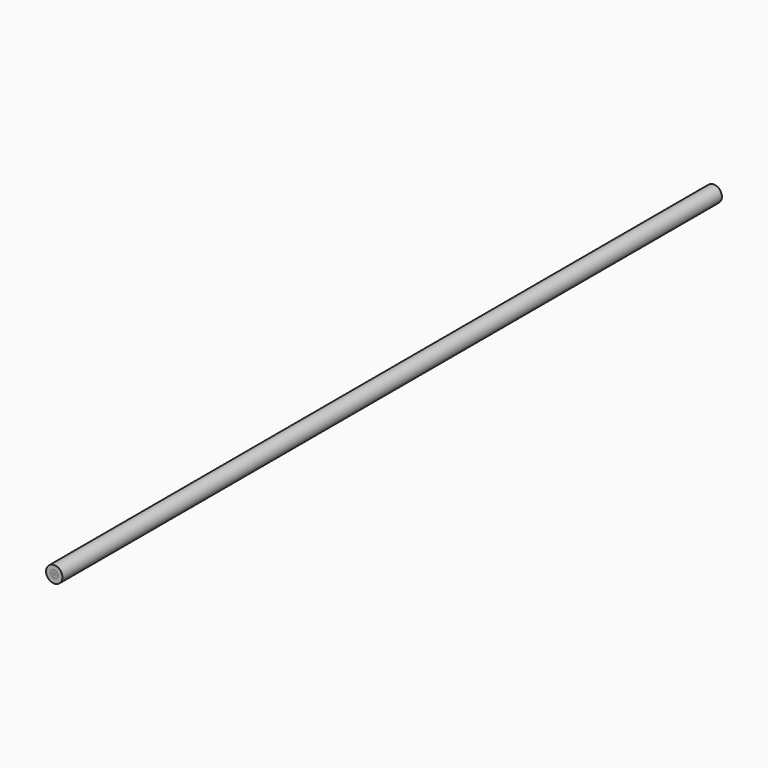
from build123d import *

# Parameters (mm, degrees)
F0_R          = 2.5
F0_R_2        = 1.25
F0_R_3        = 1
F0_R_4        = 0.5
F0_R_5        = 0.25
F1_DEPTH      = 250
F1_DEPTH_BACK = 2
F2_DEPTH      = 250
F2_DEPTH_BACK = 3


with BuildPart() as f1:
    # F0 (on Front) → F1 (new body, two sides)
    with BuildSketch(Plane.XZ) as f1_sk:
        Circle(F0_R)
        Circle(F0_R_2, mode=Mode.SUBTRACT)
        Circle(F0_R_3)
        Circle(F0_R_4, mode=Mode.SUBTRACT)
        Circle(F0_R_5)
    extrude(amount=F1_DEPTH)
    extrude(f1_sk.sketch, amount=-F1_DEPTH_BACK)


with BuildPart() as f2:
    # F0 (on Front) → F2 (new body, two sides)
    with BuildSketch(Plane.XZ) as f2_sk:
        Circle(F0_R_2)
        Circle(F0_R_3, mode=Mode.SUBTRACT)
        Circle(F0_R_4)
        Circle(F0_R_5, mode=Mode.SUBTRACT)
    extrude(amount=F2_DEPTH)
    extrude(f2_sk.sketch, amount=-F2_DEPTH_BACK)


solid = Compound([f1.part, f2.part])
